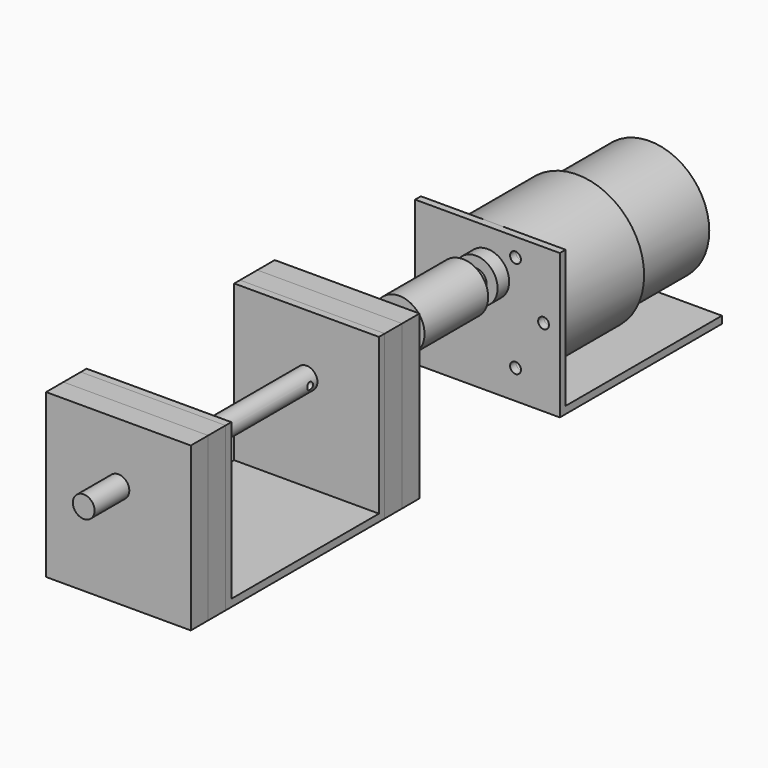
from build123d import *

# Parameters (mm, degrees)
F0_R      = 16.5
F1_DEPTH  = 25
F2_R      = 18.5
F3_DEPTH  = 29
F4_R      = 6
F5_DEPTH  = 6
F6_R      = 3
F7_DEPTH  = 15.5
F11_DEPTH = 20
F8_R      = 1.5
F12_DEPTH = 2.25
F15_R     = 7
F15_R_2   = 3
F16_DEPTH = 22
F17_R     = 3
F18_DEPTH = 120
F20_R     = 6.5
F21_DEPTH = 5
F24_DEPTH = 20
F26_W     = 40
F26_H     = 45
F26_R     = 6.5
F27_DEPTH = 6
F28_W     = 40
F28_H     = 45
F28_R     = 3
F29_DEPTH = 6
F30_W     = 40
F30_H     = 45
F30_R     = 6.5
F31_DEPTH = 6
F32_W     = 40
F32_H     = 45
F32_R     = 3
F33_DEPTH = 6
F34_R     = 1
F35_DEPTH = 12.5


with BuildPart() as f1:
    # F0 (on Front) → F1 (new body)
    with BuildSketch(Plane.XZ):
        Circle(F0_R)
    extrude(amount=F1_DEPTH)

    # F2 (on face) → F3 (join)
    with BuildSketch(Plane.XZ.offset(25)):
        Circle(F2_R)
    extrude(amount=F3_DEPTH)

    # F4 (on face) → F5 (join)
    with BuildSketch(Plane.XZ.offset(54)):
        with Locations((0, 7)):
            Circle(F4_R)
    extrude(amount=F5_DEPTH)

    # F6 (on face) → F7 (join)
    with BuildSketch(Plane.XZ.offset(60)):
        with Locations((0, 7)):
            Circle(F6_R)
    extrude(amount=F7_DEPTH)


with BuildPart() as f11:
    # F10 (on Right) → F11 (new body, symmetric)
    with BuildSketch(Plane.YZ):
        Polygon((-54, 18.5), (-56, 18.5), (-56, -21.5), (0, -21.5), (0, -19.5), (-54, -19.5), align=None)
    extrude(amount=F11_DEPTH, both=True)


with BuildPart() as f12_tool:
    # F8 (on face) → F12 (new body, symmetric)
    with BuildSketch(Plane.XZ.offset(54)):
        with Locations((-15.5, 0)):
            Circle(F8_R)
        with Locations((7.75, 13.4233937587)):
            Circle(F8_R)
        with Locations((15.5, 0)):
            Circle(F8_R)
        with Locations((7.75, -13.4233937587)):
            Circle(F8_R)
    extrude(amount=F12_DEPTH, both=True)


with BuildPart() as f1_1:
    add(f1.part)

    # F12: cut by f12_tool
    add(f12_tool.part, mode=Mode.SUBTRACT)


with BuildPart() as f11_1:
    add(f11.part)

    # F12: cut by f12_tool
    add(f12_tool.part, mode=Mode.SUBTRACT)

    # F13: cut F1
    add(f1_1.part, mode=Mode.SUBTRACT)


with BuildPart() as f16:
    # F15 (on offset) → F16 (new body)
    with BuildSketch(Plane.XZ.offset(64.5)):
        with Locations((0, 7)):
            Circle(F15_R)
        with Locations((0, 7)):
            Circle(F15_R_2, mode=Mode.SUBTRACT)
    extrude(amount=F16_DEPTH)


with BuildPart() as f18:
    # F17 (on face) → F18 (new body)
    with BuildSketch(Plane.XZ.offset(75.5)):
        with Locations((0, 7)):
            Circle(F17_R)
    extrude(amount=F18_DEPTH)


with BuildPart() as f21:
    # F20 (on offset) → F21 (new body)
    with BuildSketch(Plane.XZ.offset(111.5)):
        with Locations((0, 7)):
            Circle(F20_R)
    extrude(amount=F21_DEPTH)


with BuildPart() as f22_1:
    # F22: copy of F21
    add(f21.part.moved(Location((0, -60, 0))))

    # F25: cut F18
    add(f18.part, mode=Mode.SUBTRACT)


with BuildPart() as f24:
    # F23 (on Right) → F24 (new body, symmetric)
    with BuildSketch(Plane.YZ):
        Polygon((-169.5, -19.5), (-169.5, 23.5), (-171.5, 23.5), (-171.5, -21.5), (-116.5, -21.5), (-116.5, 23.5), (-118.5, 23.5), (-118.5, -19.5), align=None)
    extrude(amount=F24_DEPTH, both=True)

    # F25: cut F18
    add(f18.part, mode=Mode.SUBTRACT)


with BuildPart() as f21_1:
    add(f21.part)

    # F25: cut F18
    add(f18.part, mode=Mode.SUBTRACT)


with BuildPart() as f27:
    # F26 (on face) → F27 (new body)
    with BuildSketch(Plane.XZ.offset(171.5)):
        with Locations((0, 1)):
            Rectangle(F26_W, F26_H)
        with Locations((0, 7)):
            Circle(F26_R, mode=Mode.SUBTRACT)
    extrude(amount=F27_DEPTH)


with BuildPart() as f29:
    # F28 (on face) → F29 (new body)
    with BuildSketch(Plane.XZ.offset(177.5)):
        with Locations((0, 1)):
            Rectangle(F28_W, F28_H)
        with Locations((0, 7)):
            Circle(F28_R, mode=Mode.SUBTRACT)
    extrude(amount=F29_DEPTH)


with BuildPart() as f31:
    # F30 (on face) → F31 (new body)
    with BuildSketch(Plane(origin=(0, -116.5, 0), x_dir=(-1, 0, 0), z_dir=(0, 1, 0))):
        with Locations((0, 1)):
            Rectangle(F30_W, F30_H)
        with Locations((0, 7)):
            Circle(F30_R, mode=Mode.SUBTRACT)
    extrude(amount=F31_DEPTH)


with BuildPart() as f33:
    # F32 (on face) → F33 (new body)
    with BuildSketch(Plane(origin=(0, -110.5, 0), x_dir=(-1, 0, 0), z_dir=(0, 1, 0))):
        with Locations((0, 1)):
            Rectangle(F32_W, F32_H)
        with Locations((0, 7)):
            Circle(F32_R, mode=Mode.SUBTRACT)
    extrude(amount=F33_DEPTH)


with BuildPart() as f18_1:
    add(f18.part)

    # F34 (on Right) → F35 (cut, symmetric)
    with BuildSketch(Plane.YZ):
        with Locations((-121, 7)):
            Circle(F34_R)
    extrude(amount=F35_DEPTH, both=True, mode=Mode.SUBTRACT)


solid = Compound([f1_1.part, f11_1.part, f16.part, f22_1.part, f24.part, f21_1.part, f27.part, f29.part, f31.part, f33.part, f18_1.part])
